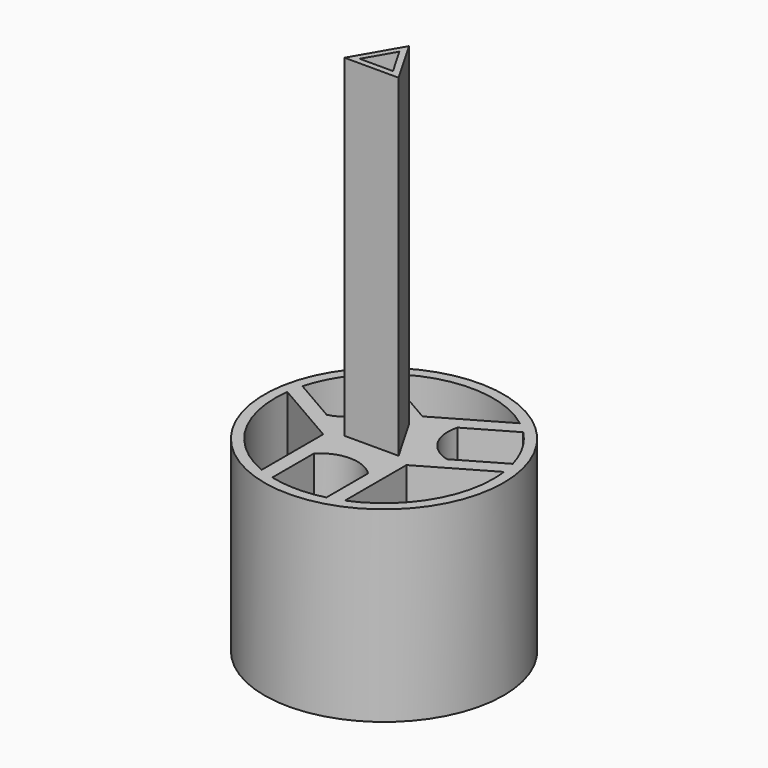
from build123d import *

# Parameters (mm, degrees)
F0_R     = 5.75
F1_DEPTH = 2.5
F2_DEPTH = 18.5
F3_DEPTH = 6.5
F4_DEPTH = 1.5


with BuildPart() as f1:
    # F0 (on Top) → F1 (new body)
    with BuildSketch(Plane.XY):
        Circle(F0_R)
        with BuildLine():
            ThreePointArc((5.2037929302, 0.6950101723), (5.2384354956, 0.3482722473), (5.25, 0))
            ThreePointArc((5.25, 0), (4.3624820917, -2.9208303614), (2, -4.8541219597))
            ThreePointArc((2, -4.8541219597), (1.6540858778, -4.9826197837), (1.3, -5.0865017448))
            ThreePointArc((1.3, -5.0865017448), (0, -5.25), (-1.3, -5.0865017448))
            ThreePointArc((-1.3, -5.0865017448), (-1.6540858778, -4.9826197837), (-2, -4.8541219597))
            ThreePointArc((-2, -4.8541219597), (-4.5466333699, -2.625), (-5.2037929302, 0.6950101723))
            ThreePointArc((-5.2037929302, 0.6950101723), (-5.142118249, 1.0588295016), (-5.0550397274, 1.4174178475))
            ThreePointArc((-5.0550397274, 1.4174178475), (-4.5466333699, 2.625), (-3.7550397274, 3.6690838973))
            ThreePointArc((-3.7550397274, 3.6690838973), (-3.4880323712, 3.9237902821), (-3.2037929302, 4.1591117874))
            ThreePointArc((-3.2037929302, 4.1591117874), (0, 5.25), (3.2037929302, 4.1591117874))
            ThreePointArc((3.2037929302, 4.1591117874), (3.4880323712, 3.9237902821), (3.7550397274, 3.6690838973))
            ThreePointArc((3.7550397274, 3.6690838973), (4.5466333699, 2.625), (5.0550397274, 1.4174178475))
            ThreePointArc((5.0550397274, 1.4174178475), (5.142118249, 1.0588295016), (5.2037929302, 0.6950101723))
        make_face(mode=Mode.SUBTRACT)
        with BuildLine():
            Line((2, -1.1547005384), (5.2037929302, 0.6950101723))
            ThreePointArc((5.2037929302, 0.6950101723), (5.142118249, 1.0588295016), (5.0550397274, 1.4174178475))
            Line((5.0550397274, 1.4174178475), (2.8899762179, 0.1674178475))
            ThreePointArc((2.8899762179, 0.1674178475), (1.7668965617, 1.0201182055), (1.5899762179, 2.4190838973))
            Line((1.5899762179, 2.4190838973), (3.7550397274, 3.6690838973))
            ThreePointArc((3.7550397274, 3.6690838973), (3.4880323712, 3.9237902821), (3.2037929302, 4.1591117874))
            Line((3.2037929302, 4.1591117874), (0, 2.3094010768))
            Line((0, 2.3094010768), (-3.2037929302, 4.1591117874))
            ThreePointArc((-3.2037929302, 4.1591117874), (-3.4880323712, 3.9237902821), (-3.7550397274, 3.6690838973))
            Line((-3.7550397274, 3.6690838973), (-1.5899762179, 2.4190838973))
            ThreePointArc((-1.5899762179, 2.4190838973), (-1.7668965617, 1.0201182055), (-2.8899762179, 0.1674178475))
            Line((-2.8899762179, 0.1674178475), (-5.0550397274, 1.4174178475))
            ThreePointArc((-5.0550397274, 1.4174178475), (-5.142118249, 1.0588295016), (-5.2037929302, 0.6950101723))
            Line((-5.2037929302, 0.6950101723), (-2, -1.1547005384))
            Line((-2, -1.1547005384), (-2, -4.8541219597))
            ThreePointArc((-2, -4.8541219597), (-1.6540858778, -4.9826197837), (-1.3, -5.0865017448))
            Line((-1.3, -5.0865017448), (-1.3, -2.5865017448))
            ThreePointArc((-1.3, -2.5865017448), (0, -2.0402364111), (1.3, -2.5865017448))
            Line((1.3, -2.5865017448), (1.3, -5.0865017448))
            ThreePointArc((1.3, -5.0865017448), (1.6540858778, -4.9826197837), (2, -4.8541219597))
            Line((2, -4.8541219597), (2, -1.1547005384))
        make_face()
        Polygon((-1.3, -0.7505553499), (0, 1.5011106999), (1.3, -0.7505553499), align=None, mode=Mode.SUBTRACT)
    extrude(amount=F1_DEPTH)

    # F0 (on Top) → F2 (join)
    with BuildSketch(Plane.XY):
        Polygon((1.3, -0.7505553499), (0, 1.5011106999), (-1.3, -0.7505553499), align=None)
        Polygon((-0.8, -0.4618802154), (0, 0.9237604307), (0.8, -0.4618802154), align=None, mode=Mode.SUBTRACT)
    extrude(amount=F2_DEPTH)

    # F0 (on Top) → F3 (join)
    with BuildSketch(Plane.XY):
        Circle(F0_R)
        with BuildLine():
            ThreePointArc((5.2037929302, 0.6950101723), (5.2384354956, 0.3482722473), (5.25, 0))
            ThreePointArc((5.25, 0), (4.3624820917, -2.9208303614), (2, -4.8541219597))
            ThreePointArc((2, -4.8541219597), (1.6540858778, -4.9826197837), (1.3, -5.0865017448))
            ThreePointArc((1.3, -5.0865017448), (0, -5.25), (-1.3, -5.0865017448))
            ThreePointArc((-1.3, -5.0865017448), (-1.6540858778, -4.9826197837), (-2, -4.8541219597))
            ThreePointArc((-2, -4.8541219597), (-4.5466333699, -2.625), (-5.2037929302, 0.6950101723))
            ThreePointArc((-5.2037929302, 0.6950101723), (-5.142118249, 1.0588295016), (-5.0550397274, 1.4174178475))
            ThreePointArc((-5.0550397274, 1.4174178475), (-4.5466333699, 2.625), (-3.7550397274, 3.6690838973))
            ThreePointArc((-3.7550397274, 3.6690838973), (-3.4880323712, 3.9237902821), (-3.2037929302, 4.1591117874))
            ThreePointArc((-3.2037929302, 4.1591117874), (0, 5.25), (3.2037929302, 4.1591117874))
            ThreePointArc((3.2037929302, 4.1591117874), (3.4880323712, 3.9237902821), (3.7550397274, 3.6690838973))
            ThreePointArc((3.7550397274, 3.6690838973), (4.5466333699, 2.625), (5.0550397274, 1.4174178475))
            ThreePointArc((5.0550397274, 1.4174178475), (5.142118249, 1.0588295016), (5.2037929302, 0.6950101723))
        make_face(mode=Mode.SUBTRACT)
    extrude(amount=-F3_DEPTH)

    # F0 (on Top) → F4 (join)
    with BuildSketch(Plane.XY):
        with BuildLine():
            Line((2, -1.1547005384), (5.2037929302, 0.6950101723))
            ThreePointArc((5.2037929302, 0.6950101723), (5.142118249, 1.0588295016), (5.0550397274, 1.4174178475))
            Line((5.0550397274, 1.4174178475), (2.8899762179, 0.1674178475))
            ThreePointArc((2.8899762179, 0.1674178475), (1.7668965617, 1.0201182055), (1.5899762179, 2.4190838973))
            Line((1.5899762179, 2.4190838973), (3.7550397274, 3.6690838973))
            ThreePointArc((3.7550397274, 3.6690838973), (3.4880323712, 3.9237902821), (3.2037929302, 4.1591117874))
            Line((3.2037929302, 4.1591117874), (0, 2.3094010768))
            Line((0, 2.3094010768), (-3.2037929302, 4.1591117874))
            ThreePointArc((-3.2037929302, 4.1591117874), (-3.4880323712, 3.9237902821), (-3.7550397274, 3.6690838973))
            Line((-3.7550397274, 3.6690838973), (-1.5899762179, 2.4190838973))
            ThreePointArc((-1.5899762179, 2.4190838973), (-1.7668965617, 1.0201182055), (-2.8899762179, 0.1674178475))
            Line((-2.8899762179, 0.1674178475), (-5.0550397274, 1.4174178475))
            ThreePointArc((-5.0550397274, 1.4174178475), (-5.142118249, 1.0588295016), (-5.2037929302, 0.6950101723))
            Line((-5.2037929302, 0.6950101723), (-2, -1.1547005384))
            Line((-2, -1.1547005384), (-2, -4.8541219597))
            ThreePointArc((-2, -4.8541219597), (-1.6540858778, -4.9826197837), (-1.3, -5.0865017448))
            Line((-1.3, -5.0865017448), (-1.3, -2.5865017448))
            ThreePointArc((-1.3, -2.5865017448), (0, -2.0402364111), (1.3, -2.5865017448))
            Line((1.3, -2.5865017448), (1.3, -5.0865017448))
            ThreePointArc((1.3, -5.0865017448), (1.6540858778, -4.9826197837), (2, -4.8541219597))
            Line((2, -4.8541219597), (2, -1.1547005384))
        make_face()
        Polygon((-1.3, -0.7505553499), (0, 1.5011106999), (1.3, -0.7505553499), align=None, mode=Mode.SUBTRACT)
    extrude(amount=-F4_DEPTH)


solid = f1.part
